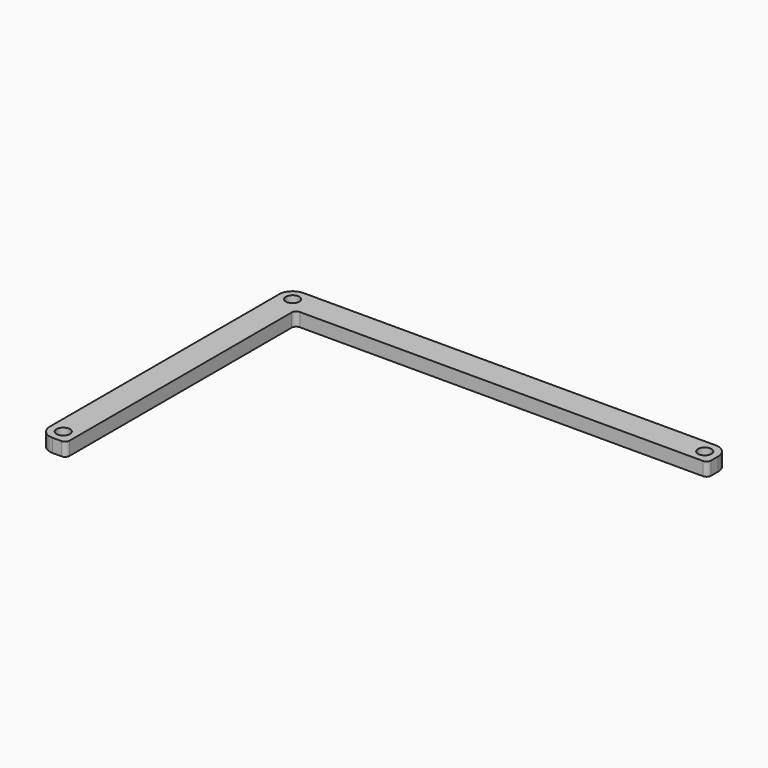
from build123d import *

# Parameters (mm, degrees)
F0_R     = 1.5
F1_DEPTH = 3


with BuildPart() as f1:
    # F0 (on Top) → F1 (new body)
    with BuildSketch(Plane.XY):
        with BuildLine():
            ThreePointArc((6, -1), (6.292893, -0.292893), (7, 0))
            Line((7, 0), (97, 0))
            ThreePointArc((97, 0), (97.707107, 0.292893), (98, 1))
            Line((98, 1), (98, 3))
            ThreePointArc((98, 3), (97.12132, 5.12132), (95, 6))
            Line((95, 6), (3, 6))
            ThreePointArc((3, 6), (0.87868, 5.12132), (0, 3))
            Line((0, 3), (0, 1))
            Line((0, 1), (0, 0))
            Line((0, 0), (0, -61))
            ThreePointArc((0, -61), (0.87868, -63.12132), (3, -64))
            Line((3, -64), (5, -64))
            ThreePointArc((5, -64), (5.707107, -63.707107), (6, -63))
            Line((6, -63), (6, -1))
        make_face()
        with Locations((3, -61)):
            Circle(F0_R, mode=Mode.SUBTRACT)
        with Locations((3, 3)):
            Circle(F0_R, mode=Mode.SUBTRACT)
        with Locations((95, 3)):
            Circle(F0_R, mode=Mode.SUBTRACT)
    extrude(amount=F1_DEPTH)


solid = f1.part
